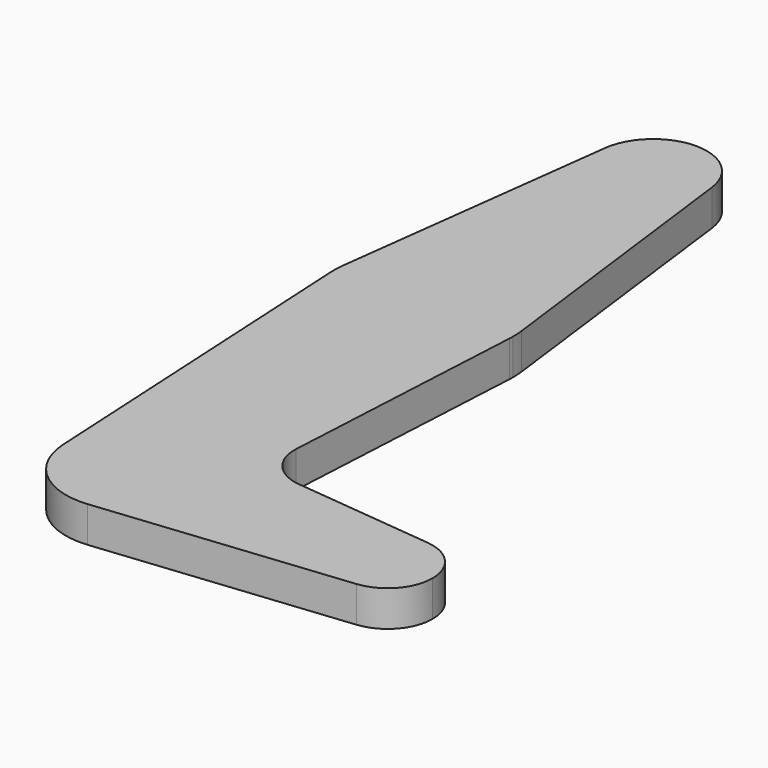
from build123d import *

# Parameters (mm, degrees)
F1_DEPTH = 0.25


with BuildPart() as f1:
    # F0 (on Top) → F1 (new body)
    with BuildSketch(Plane.XY):
        with BuildLine():
            ThreePointArc((0.372059, 4.546875), (0, 4.875), (-0.372059, 4.546875))
            ThreePointArc((-0.372059, 4.546875), (-0.023484, 4.125736), (0.375, 4.5))
            ThreePointArc((0.375, 4.5), (0.374264, 4.523484), (0.372059, 4.546875))
        make_face()
        with BuildLine():
            ThreePointArc((-0.620098, 2.578125), (-0.624592, 2.522573), (-0.62412, 2.466841))
            ThreePointArc((-0.62412, 2.466841), (0, 1.875), (0.62412, 2.466841))
            ThreePointArc((0.62412, 2.466841), (0.62478, 2.483415), (0.625, 2.5))
            ThreePointArc((0.625, 2.5), (0.623773, 2.539139), (0.620098, 2.578125))
            ThreePointArc((0.620098, 2.578125), (0, 3.125), (-0.620098, 2.578125))
        make_face()
        with BuildLine():
            Line((-0.372059, 4.546875), (-0.620098, 2.578125))
            ThreePointArc((-0.620098, 2.578125), (0, 3.125), (0.620098, 2.578125))
            Line((0.620098, 2.578125), (0.372059, 4.546875))
            ThreePointArc((0.372059, 4.546875), (0.374264, 4.523484), (0.375, 4.5))
            ThreePointArc((0.375, 4.5), (-0.023484, 4.125736), (-0.372059, 4.546875))
        make_face()
        with BuildLine():
            ThreePointArc((-0.491671, -0.026122), (-0.013066, 0.492191), (0.492364, 0))
            ThreePointArc((0.492364, 0), (0.365608, -0.329778), (0.050605, -0.489757))
            Line((0.050605, -0.489757), (1.782119, -0.310845))
            ThreePointArc((1.782119, -0.310845), (1.4375, 0), (1.782119, 0.310845))
            Line((1.782119, 0.310845), (0.800406, 0.412282))
            ThreePointArc((0.800406, 0.412282), (0.60322, 0.515741), (0.531663, 0.72661))
            Line((0.531663, 0.72661), (0.62412, 2.466841))
            ThreePointArc((0.62412, 2.466841), (0, 1.875), (-0.62412, 2.466841))
            Line((-0.62412, 2.466841), (-0.491671, -0.026122))
        make_face()
        with BuildLine():
            ThreePointArc((1.782119, 0.310845), (1.4375, 0), (1.782119, -0.310845))
            ThreePointArc((1.782119, -0.310845), (1.982049, -0.209307), (2.0625, 0))
            ThreePointArc((2.0625, 0), (1.982049, 0.209307), (1.782119, 0.310845))
        make_face()
        with BuildLine():
            ThreePointArc((0.050605, -0.489757), (0.365608, -0.329778), (0.492364, 0))
            ThreePointArc((0.492364, 0), (-0.013066, 0.492191), (-0.491671, -0.026122))
            ThreePointArc((-0.491671, -0.026122), (-0.31996, -0.374231), (0.050605, -0.489757))
        make_face()
    extrude(amount=F1_DEPTH)


solid = f1.part
